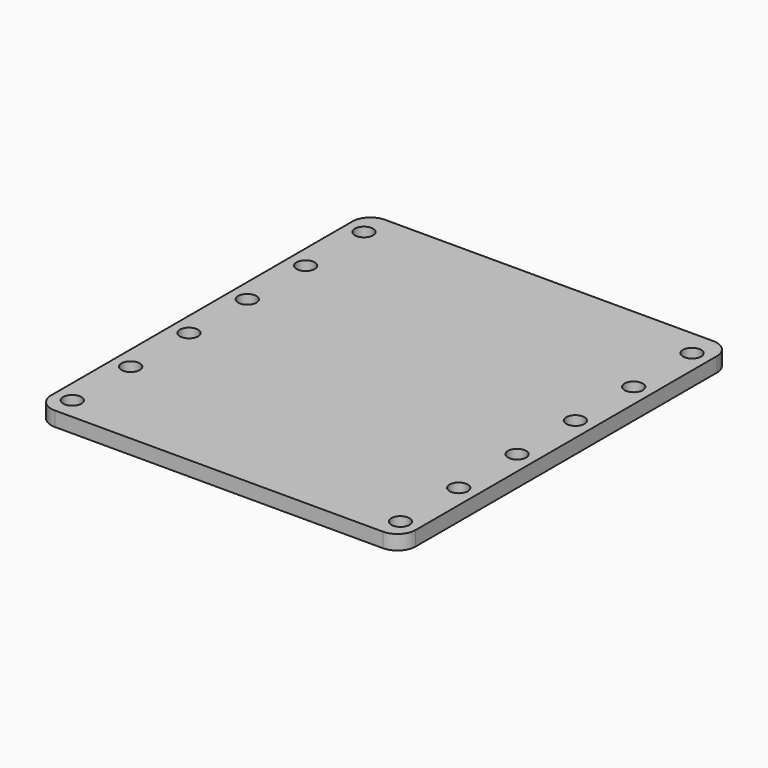
from build123d import *

# Parameters (mm, degrees)
F0_R     = 2
F1_DEPTH = 3.2


with BuildPart() as f1:
    # F0 (on Top) → F1 (new body)
    with BuildSketch(Plane.XY):
        with BuildLine():
            ThreePointArc((0, 4), (1.171573, 1.171573), (4, 0))
            Line((4, 0), (76, 0))
            ThreePointArc((76, 0), (78.828427, 1.171573), (80, 4))
            Line((80, 4), (80, 86.6))
            ThreePointArc((80, 86.6), (78.828427, 89.428427), (76, 90.6))
            Line((76, 90.6), (4, 90.6))
            ThreePointArc((4, 90.6), (1.171573, 89.428427), (0, 86.6))
            Line((0, 86.6), (0, 4))
        make_face()
        with Locations((4, 4.8)):
            Circle(F0_R, mode=Mode.SUBTRACT)
        with Locations((4, 20.8)):
            Circle(F0_R, mode=Mode.SUBTRACT)
        with Locations((4, 36.8)):
            Circle(F0_R, mode=Mode.SUBTRACT)
        with Locations((76, 4.8)):
            Circle(F0_R, mode=Mode.SUBTRACT)
        with Locations((76, 20.8)):
            Circle(F0_R, mode=Mode.SUBTRACT)
        with Locations((76, 36.8)):
            Circle(F0_R, mode=Mode.SUBTRACT)
        with Locations((4, 52.8)):
            Circle(F0_R, mode=Mode.SUBTRACT)
        with Locations((4, 68.8)):
            Circle(F0_R, mode=Mode.SUBTRACT)
        with Locations((4, 84.8)):
            Circle(F0_R, mode=Mode.SUBTRACT)
        with Locations((76, 52.8)):
            Circle(F0_R, mode=Mode.SUBTRACT)
        with Locations((76, 68.8)):
            Circle(F0_R, mode=Mode.SUBTRACT)
        with Locations((76, 84.8)):
            Circle(F0_R, mode=Mode.SUBTRACT)
    extrude(amount=F1_DEPTH)


solid = f1.part
